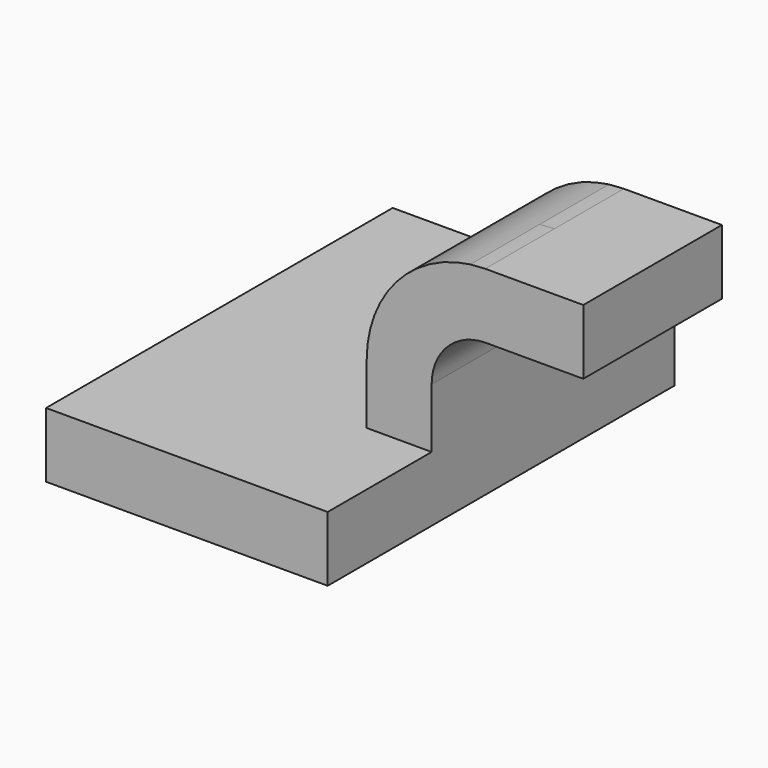
from build123d import *

# Parameters (mm, degrees)
F1_DEPTH = 63.5
F0_W     = 25.4
F0_H     = 19.05
F2_DEPTH = 25.4


with BuildPart() as f1:
    # F0 (on Front) → F1 (new body, symmetric)
    with BuildSketch(Plane.XZ):
        Polygon((-41.275, -9.525), (41.275, -9.525), (41.275, 9.525), (22.225, 9.525), (-41.275, 9.525), align=None)
    extrude(amount=F1_DEPTH, both=True)

    # F0 (on Front) → F2 (join, symmetric)
    with BuildSketch(Plane.XZ):
        with BuildLine():
            Line((22.225, 9.525), (41.275, 9.525))
            Line((41.275, 9.525), (41.275, 26.9879286495))
            ThreePointArc((41.275, 26.9879286495), (45.8835099852, 38.1719273864), (57.0333405036, 42.8625))
            Line((57.0333405036, 42.8625), (60.325, 42.8625))
            Line((60.325, 42.8625), (60.325, 61.9125))
            Line((60.325, 61.9125), (56.9769653667, 61.9125))
            add(Edge.make_bspline(
                [(52.6122615427, 61.616884087), (54.0988676503, 61.7410051685), (55.5553496798, 61.8396613049), (56.9769653667, 61.9125)],
                knots=[107.0884810309, 107.0884810309, 107.0884810309, 107.0884810309, 111.3458524359, 111.3458524359, 111.3458524359, 111.3458524359], degree=3))
            ThreePointArc((52.6122615427, 61.616884087), (30.8989415392, 50.0235001573), (22.225, 26.9879286495))
            Line((22.225, 26.9879286495), (22.225, 9.525))
        make_face()
        with Locations((73.025, 52.3875)):
            Rectangle(F0_W, F0_H)
    extrude(amount=F2_DEPTH, both=True)


solid = f1.part
